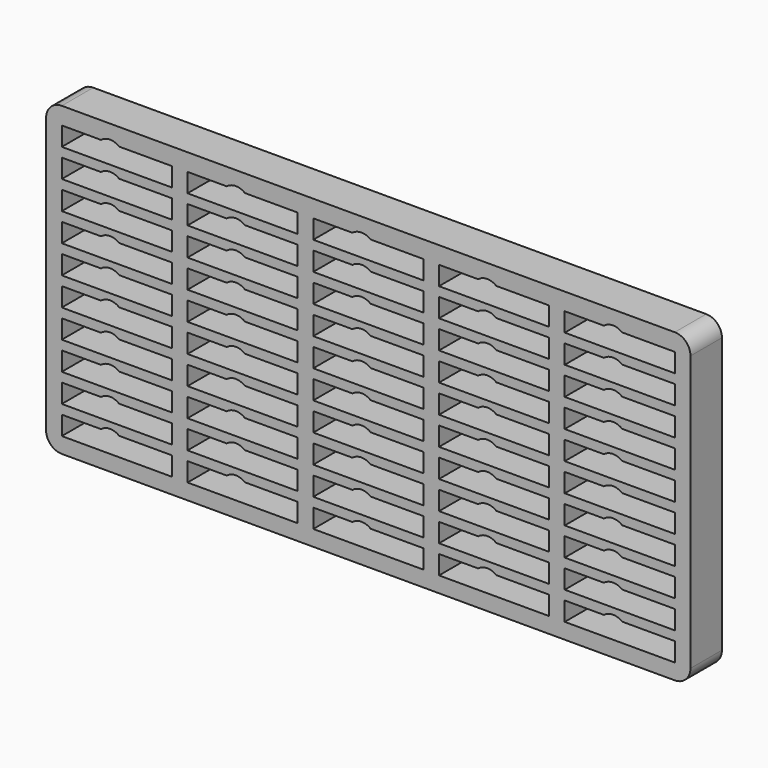
from build123d import *

# Parameters (mm, degrees)
F1_DEPTH = 25


with BuildPart() as f1:
    # F0 (on Front) → F1 (new body)
    with BuildSketch(Plane.XZ):
        with BuildLine():
            ThreePointArc((0, 10), (2.928932, 2.928932), (10, 0))
            Line((10, 0), (400, 0))
            ThreePointArc((400, 0), (407.071068, 2.928932), (410, 10))
            Line((410, 10), (410, 185))
            ThreePointArc((410, 185), (407.071068, 192.071068), (400, 195))
            Line((400, 195), (10, 195))
            ThreePointArc((10, 195), (2.928932, 192.071068), (0, 185))
            Line((0, 185), (0, 10))
        make_face()
        with BuildLine():
            Line((80, 10), (10, 10))
            Line((10, 10), (10, 22))
            Line((10, 22), (34.927119, 22))
            ThreePointArc((34.927119, 22), (40.698737, 24.027412), (46.470355, 22))
            Line((46.470355, 22), (80, 22))
            Line((80, 22), (80, 10))
        make_face(mode=Mode.SUBTRACT)
        with BuildLine():
            Line((80, 28), (10, 28))
            Line((10, 28), (10, 40))
            Line((10, 40), (34.927119, 40))
            ThreePointArc((34.927119, 40), (40.698737, 42.027412), (46.470355, 40))
            Line((46.470355, 40), (80, 40))
            Line((80, 40), (80, 28))
        make_face(mode=Mode.SUBTRACT)
        with BuildLine():
            Line((160, 10), (90, 10))
            Line((90, 10), (90, 22))
            Line((90, 22), (114.927119, 22))
            ThreePointArc((114.927119, 22), (120.698737, 24.027412), (126.470355, 22))
            Line((126.470355, 22), (160, 22))
            Line((160, 22), (160, 10))
        make_face(mode=Mode.SUBTRACT)
        with BuildLine():
            Line((160, 28), (90, 28))
            Line((90, 28), (90, 40))
            Line((90, 40), (114.927119, 40))
            ThreePointArc((114.927119, 40), (120.698737, 42.027412), (126.470355, 40))
            Line((126.470355, 40), (160, 40))
            Line((160, 40), (160, 28))
        make_face(mode=Mode.SUBTRACT)
        with BuildLine():
            Line((80, 46), (10, 46))
            Line((10, 46), (10, 58))
            Line((10, 58), (34.927119, 58))
            ThreePointArc((34.927119, 58), (40.698737, 60.027412), (46.470355, 58))
            Line((46.470355, 58), (80, 58))
            Line((80, 58), (80, 46))
        make_face(mode=Mode.SUBTRACT)
        with BuildLine():
            Line((80, 64), (10, 64))
            Line((10, 64), (10, 76))
            Line((10, 76), (34.927119, 76))
            ThreePointArc((34.927119, 76), (40.698737, 78.027412), (46.470355, 76))
            Line((46.470355, 76), (80, 76))
            Line((80, 76), (80, 64))
        make_face(mode=Mode.SUBTRACT)
        with BuildLine():
            Line((80, 82), (10, 82))
            Line((10, 82), (10, 94))
            Line((10, 94), (34.927119, 94))
            ThreePointArc((34.927119, 94), (40.698737, 96.027412), (46.470355, 94))
            Line((46.470355, 94), (80, 94))
            Line((80, 94), (80, 82))
        make_face(mode=Mode.SUBTRACT)
        with BuildLine():
            Line((160, 46), (90, 46))
            Line((90, 46), (90, 58))
            Line((90, 58), (114.927119, 58))
            ThreePointArc((114.927119, 58), (120.698737, 60.027412), (126.470355, 58))
            Line((126.470355, 58), (160, 58))
            Line((160, 58), (160, 46))
        make_face(mode=Mode.SUBTRACT)
        with BuildLine():
            Line((160, 64), (90, 64))
            Line((90, 64), (90, 76))
            Line((90, 76), (114.927119, 76))
            ThreePointArc((114.927119, 76), (120.698737, 78.027412), (126.470355, 76))
            Line((126.470355, 76), (160, 76))
            Line((160, 76), (160, 64))
        make_face(mode=Mode.SUBTRACT)
        with BuildLine():
            Line((160, 82), (90, 82))
            Line((90, 82), (90, 94))
            Line((90, 94), (114.927119, 94))
            ThreePointArc((114.927119, 94), (120.698737, 96.027412), (126.470355, 94))
            Line((126.470355, 94), (160, 94))
            Line((160, 94), (160, 82))
        make_face(mode=Mode.SUBTRACT)
        with BuildLine():
            Line((240, 10), (170, 10))
            Line((170, 10), (170, 22))
            Line((170, 22), (194.927119, 22))
            ThreePointArc((194.927119, 22), (200.698737, 24.027412), (206.470355, 22))
            Line((206.470355, 22), (240, 22))
            Line((240, 22), (240, 10))
        make_face(mode=Mode.SUBTRACT)
        with BuildLine():
            Line((320, 10), (250, 10))
            Line((250, 10), (250, 22))
            Line((250, 22), (274.927119, 22))
            ThreePointArc((274.927119, 22), (280.698737, 24.027412), (286.470355, 22))
            Line((286.470355, 22), (320, 22))
            Line((320, 22), (320, 10))
        make_face(mode=Mode.SUBTRACT)
        with BuildLine():
            Line((240, 28), (170, 28))
            Line((170, 28), (170, 40))
            Line((170, 40), (194.927119, 40))
            ThreePointArc((194.927119, 40), (200.698737, 42.027412), (206.470355, 40))
            Line((206.470355, 40), (240, 40))
            Line((240, 40), (240, 28))
        make_face(mode=Mode.SUBTRACT)
        with BuildLine():
            Line((320, 28), (250, 28))
            Line((250, 28), (250, 40))
            Line((250, 40), (274.927119, 40))
            ThreePointArc((274.927119, 40), (280.698737, 42.027412), (286.470355, 40))
            Line((286.470355, 40), (320, 40))
            Line((320, 40), (320, 28))
        make_face(mode=Mode.SUBTRACT)
        with BuildLine():
            Line((400, 10), (330, 10))
            Line((330, 10), (330, 22))
            Line((330, 22), (354.927119, 22))
            ThreePointArc((354.927119, 22), (360.698737, 24.027412), (366.470355, 22))
            Line((366.470355, 22), (400, 22))
            Line((400, 22), (400, 10))
        make_face(mode=Mode.SUBTRACT)
        with BuildLine():
            Line((400, 28), (330, 28))
            Line((330, 28), (330, 40))
            Line((330, 40), (354.927119, 40))
            ThreePointArc((354.927119, 40), (360.698737, 42.027412), (366.470355, 40))
            Line((366.470355, 40), (400, 40))
            Line((400, 40), (400, 28))
        make_face(mode=Mode.SUBTRACT)
        with BuildLine():
            Line((240, 46), (170, 46))
            Line((170, 46), (170, 58))
            Line((170, 58), (194.927119, 58))
            ThreePointArc((194.927119, 58), (200.698737, 60.027412), (206.470355, 58))
            Line((206.470355, 58), (240, 58))
            Line((240, 58), (240, 46))
        make_face(mode=Mode.SUBTRACT)
        with BuildLine():
            Line((240, 64), (170, 64))
            Line((170, 64), (170, 76))
            Line((170, 76), (194.927119, 76))
            ThreePointArc((194.927119, 76), (200.698737, 78.027412), (206.470355, 76))
            Line((206.470355, 76), (240, 76))
            Line((240, 76), (240, 64))
        make_face(mode=Mode.SUBTRACT)
        with BuildLine():
            Line((320, 46), (250, 46))
            Line((250, 46), (250, 58))
            Line((250, 58), (274.927119, 58))
            ThreePointArc((274.927119, 58), (280.698737, 60.027412), (286.470355, 58))
            Line((286.470355, 58), (320, 58))
            Line((320, 58), (320, 46))
        make_face(mode=Mode.SUBTRACT)
        with BuildLine():
            Line((320, 64), (250, 64))
            Line((250, 64), (250, 76))
            Line((250, 76), (274.927119, 76))
            ThreePointArc((274.927119, 76), (280.698737, 78.027412), (286.470355, 76))
            Line((286.470355, 76), (320, 76))
            Line((320, 76), (320, 64))
        make_face(mode=Mode.SUBTRACT)
        with BuildLine():
            Line((240, 82), (170, 82))
            Line((170, 82), (170, 94))
            Line((170, 94), (194.927119, 94))
            ThreePointArc((194.927119, 94), (200.698737, 96.027412), (206.470355, 94))
            Line((206.470355, 94), (240, 94))
            Line((240, 94), (240, 82))
        make_face(mode=Mode.SUBTRACT)
        with BuildLine():
            Line((320, 82), (250, 82))
            Line((250, 82), (250, 94))
            Line((250, 94), (274.927119, 94))
            ThreePointArc((274.927119, 94), (280.698737, 96.027412), (286.470355, 94))
            Line((286.470355, 94), (320, 94))
            Line((320, 94), (320, 82))
        make_face(mode=Mode.SUBTRACT)
        with BuildLine():
            Line((400, 46), (330, 46))
            Line((330, 46), (330, 58))
            Line((330, 58), (354.927119, 58))
            ThreePointArc((354.927119, 58), (360.698737, 60.027412), (366.470355, 58))
            Line((366.470355, 58), (400, 58))
            Line((400, 58), (400, 46))
        make_face(mode=Mode.SUBTRACT)
        with BuildLine():
            Line((400, 64), (330, 64))
            Line((330, 64), (330, 76))
            Line((330, 76), (354.927119, 76))
            ThreePointArc((354.927119, 76), (360.698737, 78.027412), (366.470355, 76))
            Line((366.470355, 76), (400, 76))
            Line((400, 76), (400, 64))
        make_face(mode=Mode.SUBTRACT)
        with BuildLine():
            Line((400, 82), (330, 82))
            Line((330, 82), (330, 94))
            Line((330, 94), (354.927119, 94))
            ThreePointArc((354.927119, 94), (360.698737, 96.027412), (366.470355, 94))
            Line((366.470355, 94), (400, 94))
            Line((400, 94), (400, 82))
        make_face(mode=Mode.SUBTRACT)
        with BuildLine():
            Line((80, 100), (10, 100))
            Line((10, 100), (10, 112))
            Line((10, 112), (34.927119, 112))
            ThreePointArc((34.927119, 112), (40.698737, 114.027412), (46.470355, 112))
            Line((46.470355, 112), (80, 112))
            Line((80, 112), (80, 100))
        make_face(mode=Mode.SUBTRACT)
        with BuildLine():
            Line((80, 118), (10, 118))
            Line((10, 118), (10, 130))
            Line((10, 130), (34.927119, 130))
            ThreePointArc((34.927119, 130), (40.698737, 132.027412), (46.470355, 130))
            Line((46.470355, 130), (80, 130))
            Line((80, 130), (80, 118))
        make_face(mode=Mode.SUBTRACT)
        with BuildLine():
            Line((80, 136), (10, 136))
            Line((10, 136), (10, 148))
            Line((10, 148), (34.927119, 148))
            ThreePointArc((34.927119, 148), (40.698737, 150.027412), (46.470355, 148))
            Line((46.470355, 148), (80, 148))
            Line((80, 148), (80, 136))
        make_face(mode=Mode.SUBTRACT)
        with BuildLine():
            Line((160, 100), (90, 100))
            Line((90, 100), (90, 112))
            Line((90, 112), (114.927119, 112))
            ThreePointArc((114.927119, 112), (120.698737, 114.027412), (126.470355, 112))
            Line((126.470355, 112), (160, 112))
            Line((160, 112), (160, 100))
        make_face(mode=Mode.SUBTRACT)
        with BuildLine():
            Line((160, 118), (90, 118))
            Line((90, 118), (90, 130))
            Line((90, 130), (114.927119, 130))
            ThreePointArc((114.927119, 130), (120.698737, 132.027412), (126.470355, 130))
            Line((126.470355, 130), (160, 130))
            Line((160, 130), (160, 118))
        make_face(mode=Mode.SUBTRACT)
        with BuildLine():
            Line((160, 136), (90, 136))
            Line((90, 136), (90, 148))
            Line((90, 148), (114.927119, 148))
            ThreePointArc((114.927119, 148), (120.698737, 150.027412), (126.470355, 148))
            Line((126.470355, 148), (160, 148))
            Line((160, 148), (160, 136))
        make_face(mode=Mode.SUBTRACT)
        with BuildLine():
            Line((80, 154), (10, 154))
            Line((10, 154), (10, 166))
            Line((10, 166), (34.927119, 166))
            ThreePointArc((34.927119, 166), (40.698737, 168.027412), (46.470355, 166))
            Line((46.470355, 166), (80, 166))
            Line((80, 166), (80, 154))
        make_face(mode=Mode.SUBTRACT)
        with BuildLine():
            Line((80, 172), (10, 172))
            Line((10, 172), (10, 184))
            Line((10, 184), (34.927119, 184))
            ThreePointArc((34.927119, 184), (40.698737, 186.027412), (46.470355, 184))
            Line((46.470355, 184), (80, 184))
            Line((80, 184), (80, 172))
        make_face(mode=Mode.SUBTRACT)
        with BuildLine():
            Line((160, 154), (90, 154))
            Line((90, 154), (90, 166))
            Line((90, 166), (114.927119, 166))
            ThreePointArc((114.927119, 166), (120.698737, 168.027412), (126.470355, 166))
            Line((126.470355, 166), (160, 166))
            Line((160, 166), (160, 154))
        make_face(mode=Mode.SUBTRACT)
        with BuildLine():
            Line((160, 172), (90, 172))
            Line((90, 172), (90, 184))
            Line((90, 184), (114.927119, 184))
            ThreePointArc((114.927119, 184), (120.698737, 186.027412), (126.470355, 184))
            Line((126.470355, 184), (160, 184))
            Line((160, 184), (160, 172))
        make_face(mode=Mode.SUBTRACT)
        with BuildLine():
            Line((240, 100), (170, 100))
            Line((170, 100), (170, 112))
            Line((170, 112), (194.927119, 112))
            ThreePointArc((194.927119, 112), (200.698737, 114.027412), (206.470355, 112))
            Line((206.470355, 112), (240, 112))
            Line((240, 112), (240, 100))
        make_face(mode=Mode.SUBTRACT)
        with BuildLine():
            Line((320, 100), (250, 100))
            Line((250, 100), (250, 112))
            Line((250, 112), (274.927119, 112))
            ThreePointArc((274.927119, 112), (280.698737, 114.027412), (286.470355, 112))
            Line((286.470355, 112), (320, 112))
            Line((320, 112), (320, 100))
        make_face(mode=Mode.SUBTRACT)
        with BuildLine():
            Line((240, 118), (170, 118))
            Line((170, 118), (170, 130))
            Line((170, 130), (194.927119, 130))
            ThreePointArc((194.927119, 130), (200.698737, 132.027412), (206.470355, 130))
            Line((206.470355, 130), (240, 130))
            Line((240, 130), (240, 118))
        make_face(mode=Mode.SUBTRACT)
        with BuildLine():
            Line((240, 136), (170, 136))
            Line((170, 136), (170, 148))
            Line((170, 148), (194.927119, 148))
            ThreePointArc((194.927119, 148), (200.698737, 150.027412), (206.470355, 148))
            Line((206.470355, 148), (240, 148))
            Line((240, 148), (240, 136))
        make_face(mode=Mode.SUBTRACT)
        with BuildLine():
            Line((320, 118), (250, 118))
            Line((250, 118), (250, 130))
            Line((250, 130), (274.927119, 130))
            ThreePointArc((274.927119, 130), (280.698737, 132.027412), (286.470355, 130))
            Line((286.470355, 130), (320, 130))
            Line((320, 130), (320, 118))
        make_face(mode=Mode.SUBTRACT)
        with BuildLine():
            Line((320, 136), (250, 136))
            Line((250, 136), (250, 148))
            Line((250, 148), (274.927119, 148))
            ThreePointArc((274.927119, 148), (280.698737, 150.027412), (286.470355, 148))
            Line((286.470355, 148), (320, 148))
            Line((320, 148), (320, 136))
        make_face(mode=Mode.SUBTRACT)
        with BuildLine():
            Line((400, 100), (330, 100))
            Line((330, 100), (330, 112))
            Line((330, 112), (354.927119, 112))
            ThreePointArc((354.927119, 112), (360.698737, 114.027412), (366.470355, 112))
            Line((366.470355, 112), (400, 112))
            Line((400, 112), (400, 100))
        make_face(mode=Mode.SUBTRACT)
        with BuildLine():
            Line((400, 118), (330, 118))
            Line((330, 118), (330, 130))
            Line((330, 130), (354.927119, 130))
            ThreePointArc((354.927119, 130), (360.698737, 132.027412), (366.470355, 130))
            Line((366.470355, 130), (400, 130))
            Line((400, 130), (400, 118))
        make_face(mode=Mode.SUBTRACT)
        with BuildLine():
            Line((400, 136), (330, 136))
            Line((330, 136), (330, 148))
            Line((330, 148), (354.927119, 148))
            ThreePointArc((354.927119, 148), (360.698737, 150.027412), (366.470355, 148))
            Line((366.470355, 148), (400, 148))
            Line((400, 148), (400, 136))
        make_face(mode=Mode.SUBTRACT)
        with BuildLine():
            Line((240, 154), (170, 154))
            Line((170, 154), (170, 166))
            Line((170, 166), (194.927119, 166))
            ThreePointArc((194.927119, 166), (200.698737, 168.027412), (206.470355, 166))
            Line((206.470355, 166), (240, 166))
            Line((240, 166), (240, 154))
        make_face(mode=Mode.SUBTRACT)
        with BuildLine():
            Line((320, 154), (250, 154))
            Line((250, 154), (250, 166))
            Line((250, 166), (274.927119, 166))
            ThreePointArc((274.927119, 166), (280.698737, 168.027412), (286.470355, 166))
            Line((286.470355, 166), (320, 166))
            Line((320, 166), (320, 154))
        make_face(mode=Mode.SUBTRACT)
        with BuildLine():
            Line((240, 172), (170, 172))
            Line((170, 172), (170, 184))
            Line((170, 184), (194.927119, 184))
            ThreePointArc((194.927119, 184), (200.698737, 186.027412), (206.470355, 184))
            Line((206.470355, 184), (240, 184))
            Line((240, 184), (240, 172))
        make_face(mode=Mode.SUBTRACT)
        with BuildLine():
            Line((320, 172), (250, 172))
            Line((250, 172), (250, 184))
            Line((250, 184), (274.927119, 184))
            ThreePointArc((274.927119, 184), (280.698737, 186.027412), (286.470355, 184))
            Line((286.470355, 184), (320, 184))
            Line((320, 184), (320, 172))
        make_face(mode=Mode.SUBTRACT)
        with BuildLine():
            Line((400, 154), (330, 154))
            Line((330, 154), (330, 166))
            Line((330, 166), (354.927119, 166))
            ThreePointArc((354.927119, 166), (360.698737, 168.027412), (366.470355, 166))
            Line((366.470355, 166), (400, 166))
            Line((400, 166), (400, 154))
        make_face(mode=Mode.SUBTRACT)
        with BuildLine():
            Line((400, 172), (330, 172))
            Line((330, 172), (330, 184))
            Line((330, 184), (354.927119, 184))
            ThreePointArc((354.927119, 184), (360.698737, 186.027412), (366.470355, 184))
            Line((366.470355, 184), (400, 184))
            Line((400, 184), (400, 172))
        make_face(mode=Mode.SUBTRACT)
    extrude(amount=F1_DEPTH)


solid = f1.part
